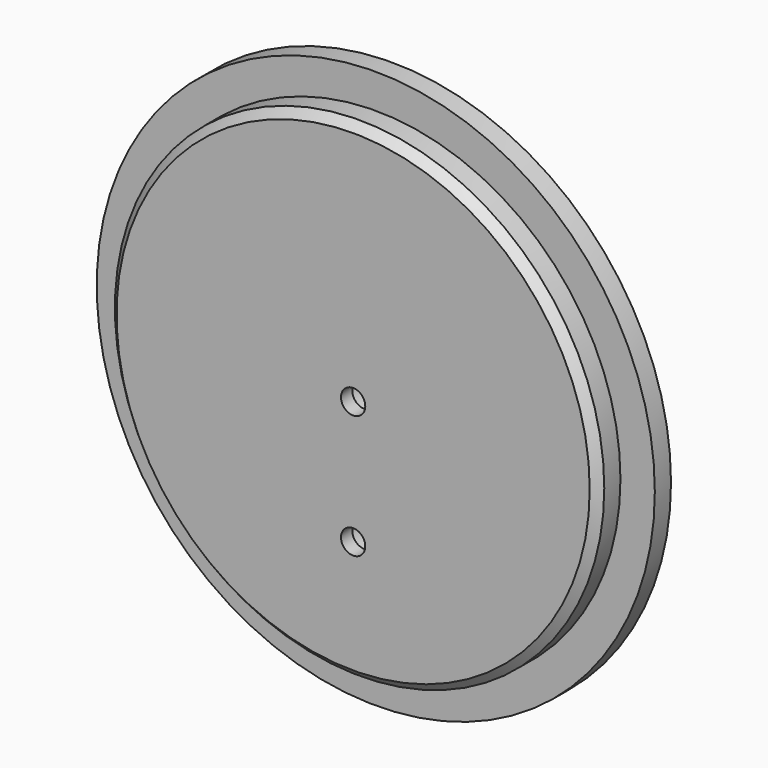
from build123d import *

# Parameters (mm, degrees)
F0_R      = 69
F1_DEPTH  = 5
F2_R      = 60.5
F3_DEPTH  = 7
F4_R      = 6.25
F5_DEPTH  = 8.5
F6_R      = 3
F7_DEPTH  = 25
F9_DEPTH  = 8.5
F10_R     = 3
F11_DEPTH = 25
F12_SIZE  = 2


with BuildPart() as f1:
    # F0 (on Front) → F1 (new body)
    with BuildSketch(Plane.XZ):
        Circle(F0_R)
    extrude(amount=F1_DEPTH)

    # F2 (on face) → F3 (join)
    with BuildSketch(Plane.XZ.offset(5)):
        Circle(F2_R)
    extrude(amount=F3_DEPTH)

    # F4 (on face) → F5 (cut)
    with BuildSketch(Plane(origin=(0, 0, 0), x_dir=(-1, 0, 0), z_dir=(0, 1, 0))):
        Circle(F4_R)
    extrude(amount=-F5_DEPTH, mode=Mode.SUBTRACT)

    # F6 (on face) → F7 (cut)
    with BuildSketch(Plane.XZ.offset(12)):
        Circle(F6_R)
    extrude(amount=-F7_DEPTH, mode=Mode.SUBTRACT)

    # F8 (on face) → F9 (cut)
    with BuildSketch(Plane(origin=(0, 0, 0), x_dir=(-1, 0, 0), z_dir=(0, 1, 0))):
        with BuildLine():
            ThreePointArc((6.25, -30.5), (4.419417, -26.080583), (0, -24.25))
            Line((0, -24.25), (0, -36.75))
            ThreePointArc((0, -36.75), (4.419417, -34.919417), (6.25, -30.5))
        make_face()
        with BuildLine():
            Line((0, -36.75), (0, -24.25))
            ThreePointArc((0, -24.25), (-6.25, -30.5), (0, -36.75))
        make_face()
    extrude(amount=-F9_DEPTH, mode=Mode.SUBTRACT)

    # F10 (on face) → F11 (cut)
    with BuildSketch(Plane(origin=(0, -8.5, 0), x_dir=(-1, 0, 0), z_dir=(0, 1, 0))):
        with Locations((0, -30.5)):
            Circle(F10_R)
    extrude(amount=-F11_DEPTH, mode=Mode.SUBTRACT)

    # F12
    f12_edges = [f1.edges().sort_by_distance(p)[0] for p in [
        (-60.5, -12, 0),
    ]]
    chamfer(f12_edges, length=F12_SIZE)


solid = f1.part
